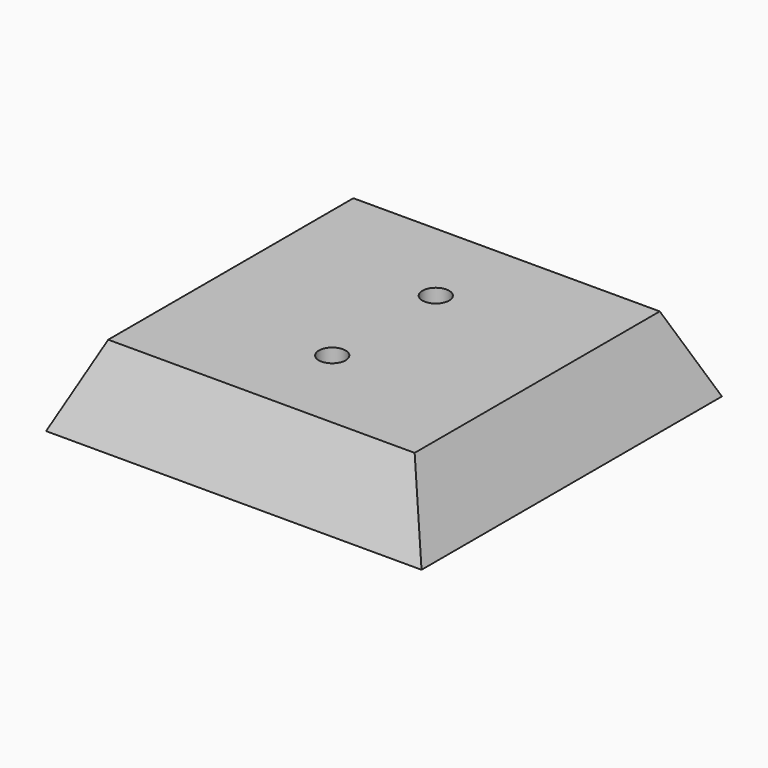
from build123d import *

# Parameters (mm, degrees)
F0_W      = 43.5
F0_H      = 43.5
F3_W      = 35.5
F3_H      = 35.5
F6_R      = 1.55
F8_DEPTH  = 9.0010001
F9_DEPTH  = 9.0010001
F10_DEPTH = 2.5
F11_DEPTH = 2.5


with BuildPart() as f4:
    # F0 (on Top) → F4 section 0
    with BuildSketch(Plane.XY):
        Rectangle(F0_W, F0_H)
    # F3 (on offset) → F4 section 1
    with BuildSketch(Plane.XY.offset(9)):
        Rectangle(F3_W, F3_H)
    loft()

    # F6 (on face) → F8 (cut, through all)
    with BuildSketch(Plane.XY.offset(9)):
        with Locations((0, 7.5)):
            Circle(F6_R)
    extrude(amount=-F8_DEPTH, mode=Mode.SUBTRACT)

    # F6 (on face) → F9 (cut, through all)
    with BuildSketch(Plane.XY.offset(9)):
        with Locations((0, -7.5)):
            Circle(F6_R)
    extrude(amount=-F9_DEPTH, mode=Mode.SUBTRACT)

    # F7 (on Top) → F10 (cut)
    with BuildSketch(Plane.XY):
        Polygon((0.3239838625, -10.6008119029), (2.8473738115, -8.7698276961), (2.523389949, -5.6690157933), (-0.3239838625, -4.3991880971), (-2.8473738115, -6.2301723039), (-2.523389949, -9.3309842067), align=None)
    extrude(amount=F10_DEPTH, mode=Mode.SUBTRACT)

    # F7 (on Top) → F11 (cut)
    with BuildSketch(Plane.XY):
        Polygon((3.1175957979, 7.4755778561), (1.579948096, 10.1877060877), (-1.5376477019, 10.2121282317), (-3.1175957979, 7.5244221439), (-1.579948096, 4.8122939123), (1.5376477019, 4.7878717683), align=None)
    extrude(amount=F11_DEPTH, mode=Mode.SUBTRACT)


solid = f4.part
